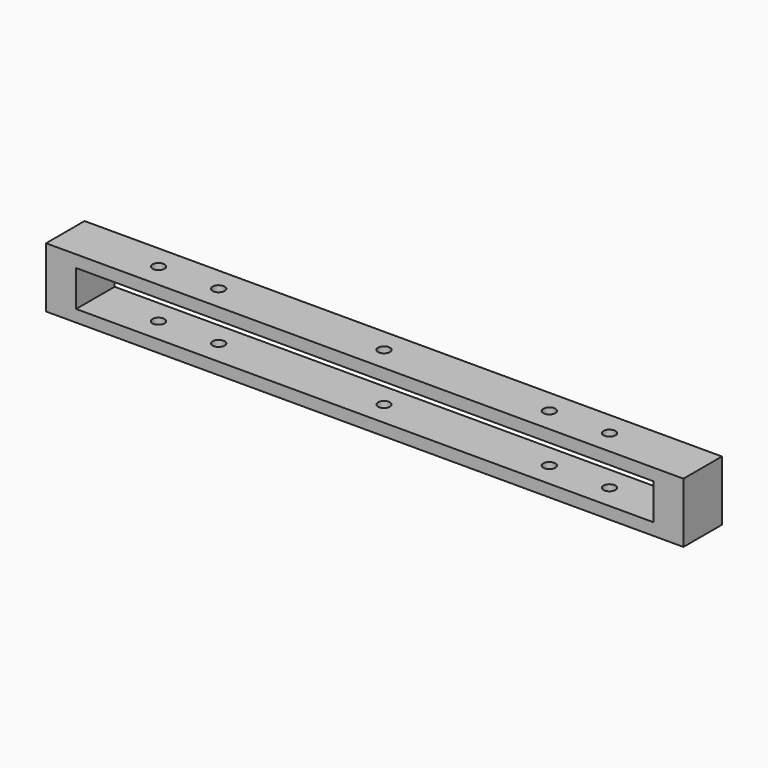
from build123d import *

# Parameters (mm, degrees)
F1_W     = 106
F1_H     = 8
F1_R     = 1
F2_DEPTH = 10
F3_W     = 96
F3_H     = 6
F4_DEPTH = 25


with BuildPart() as f2:
    # F1 (on Top) → F2 (new body)
    with BuildSketch(Plane.XY):
        Rectangle(F1_W, F1_H)
        with Locations((-37.5, 0)):
            Circle(F1_R, mode=Mode.SUBTRACT)
        with Locations((-27.5, 0)):
            Circle(F1_R, mode=Mode.SUBTRACT)
        Circle(F1_R, mode=Mode.SUBTRACT)
        with Locations((27.5, 0)):
            Circle(F1_R, mode=Mode.SUBTRACT)
        with Locations((37.5, 0)):
            Circle(F1_R, mode=Mode.SUBTRACT)
        Rectangle(F1_W, F1_H)
        with Locations((-37.5, 0)):
            Circle(F1_R, mode=Mode.SUBTRACT)
        with Locations((-27.5, 0)):
            Circle(F1_R, mode=Mode.SUBTRACT)
        Circle(F1_R, mode=Mode.SUBTRACT)
        with Locations((27.5, 0)):
            Circle(F1_R, mode=Mode.SUBTRACT)
        with Locations((37.5, 0)):
            Circle(F1_R, mode=Mode.SUBTRACT)
        Rectangle(F1_W, F1_H)
        with Locations((-37.5, 0)):
            Circle(F1_R, mode=Mode.SUBTRACT)
        with Locations((-27.5, 0)):
            Circle(F1_R, mode=Mode.SUBTRACT)
        Circle(F1_R, mode=Mode.SUBTRACT)
        with Locations((27.5, 0)):
            Circle(F1_R, mode=Mode.SUBTRACT)
        with Locations((37.5, 0)):
            Circle(F1_R, mode=Mode.SUBTRACT)
    extrude(amount=F2_DEPTH)

    # F3 (on face) → F4 (cut)
    with BuildSketch(Plane.XZ.offset(4)):
        with Locations((0, 5)):
            Rectangle(F3_W, F3_H)
    extrude(amount=-F4_DEPTH, mode=Mode.SUBTRACT)


solid = f2.part
